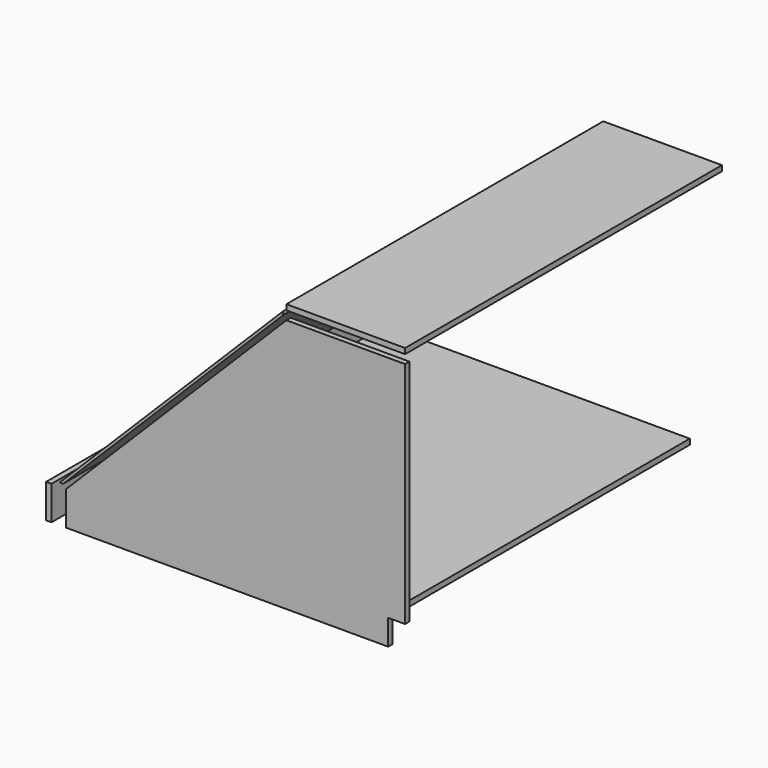
from build123d import *

# Parameters (mm, degrees)
F1_DEPTH = 16
F2_W     = 900
F2_H     = 1168
F3_DEPTH = 16
F4_W     = 350
F4_H     = 16
F5_DEPTH = 1168
F6_W     = 16
F6_H     = 100
F7_DEPTH = 1168
F9_DEPTH = 1168


with BuildPart() as f1:
    # F0 (on Front) → F1 (new body)
    with BuildSketch(Plane.XZ):
        Polygon((-1000, 100), (-1000, 0), (-50, 0), (-50, 75), (0, 75), (0, 750), (-350, 750), align=None)
    extrude(amount=F1_DEPTH)


with BuildPart() as f3:
    # F2 (on Top) → F3 (new body)
    with BuildSketch(Plane.XY):
        with Locations((-586.5750610828, 620.2018796388)):
            Rectangle(F2_W, F2_H)
    extrude(amount=F3_DEPTH)


with BuildPart() as f5:
    # F4 (on face) → F5 (new body)
    with BuildSketch(Plane.XZ.offset(16)):
        with Locations((-175, 783.7218369622)):
            Rectangle(F4_W, F4_H)
    extrude(amount=-F5_DEPTH)


with BuildPart() as f7:
    # F6 (on face) → F7 (new body)
    with BuildSketch(Plane.XZ.offset(16)):
        with Locations((-1050.8124990463, 50)):
            Rectangle(F6_W, F6_H)
    extrude(amount=-F7_DEPTH)


with BuildPart() as f9:
    # F8 (on face) → F9 (new body)
    with BuildSketch(Plane.XZ.offset(16)):
        Polygon((-1008.5517726839, 111.1917831004), (-359.8879277706, 759.8556280136), (-359.8879277706, 770.1042331755), (-1018.8003778458, 111.1917831004), align=None)
    extrude(amount=-F9_DEPTH)


solid = Compound([f1.part, f3.part, f5.part, f7.part, f9.part])
